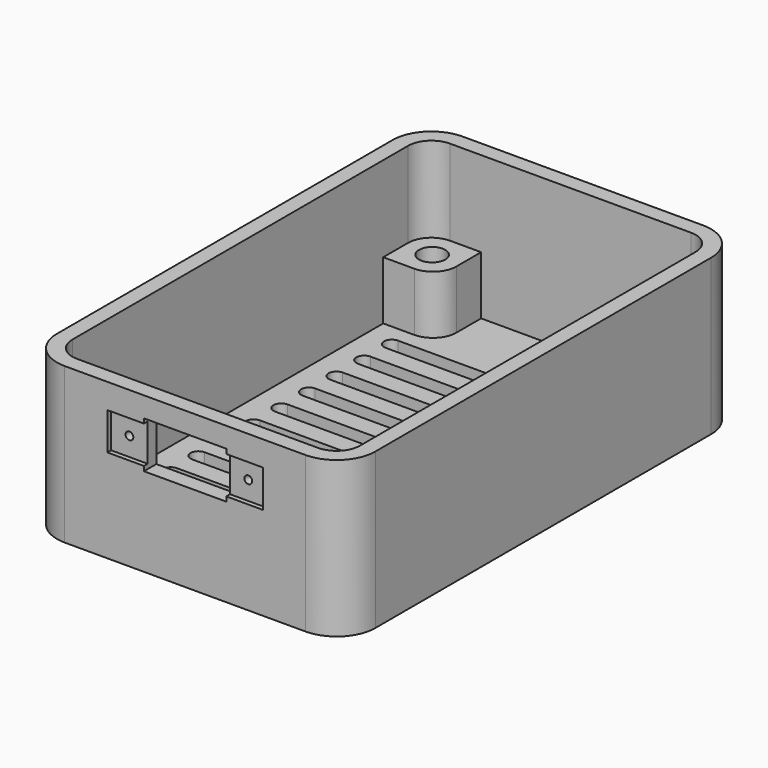
from build123d import *

# Parameters (mm, degrees)
PAD_DEPTH           = 20
POCKET_DEPTH        = 18.5
POCKET001_DEPTH     = 5
LINEARPATTERN_COUNT = 10
LINEARPATTERN_PITCH = 4.444444
PAD001_DEPTH        = 7.5
SKETCH004_R         = 1.69
POCKET002_DEPTH     = 6
SKETCH005_W         = 20
SKETCH005_H         = 4.8
POCKET003_DEPTH     = 0.6
SKETCH006_R         = 0.5
SKETCH006_W         = 10.6
SKETCH006_H         = 6
POCKET004_DEPTH     = 5


with BuildPart() as part:
    # Sketch → Pad (new body)
    with BuildSketch(Plane.XY):
        with BuildLine():
            Line((-15.5, 32), (15.5, 32))
            ThreePointArc((20.5, 27), (19.035534, 30.535534), (15.5, 32))
            Line((20.5, 27), (20.5, -27))
            ThreePointArc((15.5, -32), (19.035534, -30.535534), (20.5, -27))
            Line((15.5, -32), (-15.5, -32))
            ThreePointArc((-20.5, -27), (-19.035534, -30.535534), (-15.5, -32))
            Line((-20.5, -27), (-20.5, 27))
            ThreePointArc((-15.5, 32), (-19.035534, 30.535534), (-20.5, 27))
        make_face()
    extrude(amount=PAD_DEPTH)

    # Sketch001 (on Face10 of Pad) → Pocket (cut)
    with BuildSketch(Plane.XY.offset(20)):
        with BuildLine():
            Line((-15.5, 30), (15.5, 30))
            ThreePointArc((18.5, 27), (17.62132, 29.12132), (15.5, 30))
            Line((18.5, 27), (18.5, -27))
            ThreePointArc((15.5, -30), (17.62132, -29.12132), (18.5, -27))
            Line((15.5, -30), (-15.5, -30))
            ThreePointArc((-18.5, -27), (-17.62132, -29.12132), (-15.5, -30))
            Line((-18.5, -27), (-18.5, 27))
            ThreePointArc((-15.5, 30), (-17.62132, 29.12132), (-18.5, 27))
        make_face()
    extrude(amount=-POCKET_DEPTH, mode=Mode.SUBTRACT)

    # Sketch002 (on Face4 of Pocket) → Pocket001 (cut)
    with BuildSketch(Plane(origin=(0, 0, 0), x_dir=(1, 0, 0), z_dir=(0, 0, -1))):
        with BuildLine():
            ThreePointArc((-15, 21), (-16, 20), (-15, 19))
            Line((-15, 19), (15, 19))
            ThreePointArc((15, 19), (16, 20), (15, 21))
            Line((15, 21), (-15, 21))
        make_face()
    pocket001 = extrude(amount=-POCKET001_DEPTH, mode=Mode.SUBTRACT)

    # LinearPattern: Pocket001 ×10
    with Locations(*[(0, i * LINEARPATTERN_PITCH, 0) for i in range(1, LINEARPATTERN_COUNT)]):
        add(pocket001, mode=Mode.SUBTRACT)

    # Sketch003 (on Face59 of LinearPattern) → Pad001 (join)
    with BuildSketch(Plane.XY.offset(1.5)):
        with BuildLine():
            Line((-15.5, 30), (-11.5, 30))
            Line((-11.5, 30), (-11.5, 26))
            ThreePointArc((-14.5, 23), (-12.37868, 23.87868), (-11.5, 26))
            Line((-14.5, 23), (-18.5, 23))
            Line((-18.5, 23), (-18.5, 27))
            ThreePointArc((-15.5, 30), (-17.62132, 29.12132), (-18.5, 27))
        make_face()
        with BuildLine():
            Line((11.5, 30), (15.5, 30))
            ThreePointArc((18.5, 27), (17.62132, 29.12132), (15.5, 30))
            Line((18.5, 27), (18.5, 23))
            Line((18.5, 23), (14.5, 23))
            ThreePointArc((11.5, 26), (12.37868, 23.87868), (14.5, 23))
            Line((11.5, 26), (11.5, 30))
        make_face()
        with BuildLine():
            Line((-18.5, -23), (-14.5, -23))
            ThreePointArc((-11.5, -26), (-12.37868, -23.87868), (-14.5, -23))
            Line((-11.5, -26), (-11.5, -30))
            Line((-11.5, -30), (-15.5, -30))
            ThreePointArc((-18.5, -27), (-17.62132, -29.12132), (-15.5, -30))
            Line((-18.5, -27), (-18.5, -23))
        make_face()
        with BuildLine():
            Line((14.5, -23), (18.5, -23))
            Line((18.5, -23), (18.5, -27))
            ThreePointArc((15.5, -30), (17.62132, -29.12132), (18.5, -27))
            Line((15.5, -30), (11.5, -30))
            Line((11.5, -30), (11.5, -26))
            ThreePointArc((14.5, -23), (12.37868, -23.87868), (11.5, -26))
        make_face()
    extrude(amount=PAD001_DEPTH)

    # Sketch004 (on Face69 of Pad001) → Pocket002 (cut)
    with BuildSketch(Plane.XY.offset(9)):
        with Locations((15, 26.5)):
            Circle(SKETCH004_R)
        with Locations((-15, 26.5)):
            Circle(SKETCH004_R)
        with Locations((-15, -26.5)):
            Circle(SKETCH004_R)
        with Locations((15, -26.5)):
            Circle(SKETCH004_R)
    extrude(amount=-POCKET002_DEPTH, mode=Mode.SUBTRACT)

    # Sketch005 (on Face6 of Pocket002) → Pocket003 (cut)
    with BuildSketch(Plane.XZ.offset(32)):
        with Locations((0, 14.4)):
            Rectangle(SKETCH005_W, SKETCH005_H)
    extrude(amount=-POCKET003_DEPTH, mode=Mode.SUBTRACT)

    # Sketch006 (on Face6 of Pocket003) → Pocket004 (cut)
    with BuildSketch(Plane.XZ.offset(32)):
        with Locations((7.65, 14.4)):
            Circle(SKETCH006_R)
        with Locations((-7.65, 14.4)):
            Circle(SKETCH006_R)
        with Locations((0, 14.4)):
            Rectangle(SKETCH006_W, SKETCH006_H)
    extrude(amount=-POCKET004_DEPTH, mode=Mode.SUBTRACT)


solid = part.part
